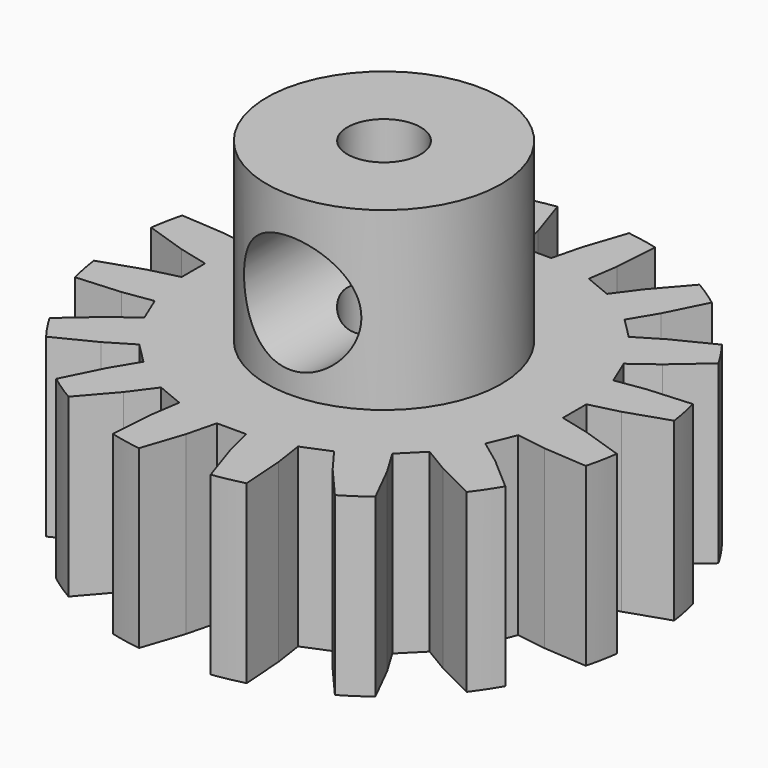
from build123d import *

# Parameters (mm, degrees)
SKETCH_R           = 9
PAD_DEPTH          = 6
POCKET_DEPTH       = 6
POLARPATTERN_COUNT = 16
SKETCH002_R        = 4
PAD001_DEPTH       = 6
SKETCH004_R        = 2
POCKET002_DEPTH    = 5
POCKET003_DEPTH    = 0.5
SKETCH003_R        = 1.25
POCKET004_DEPTH    = 15


with BuildPart() as part:
    # Sketch → Pad (new body)
    with BuildSketch(Plane.XY):
        Circle(SKETCH_R)
    extrude(amount=-PAD_DEPTH)

    # Sketch001 (on Face6 of Pad) → Pocket (cut)
    with BuildSketch(Plane.XY):
        Polygon((-0.5, 6.5), (0.5, 6.5), (0.75, 7.5), (1.25, 9), (-1.25, 9), (-0.75, 7.5), align=None)
    pocket = extrude(amount=-POCKET_DEPTH, mode=Mode.SUBTRACT)

    # PolarPattern: Pocket ×16 about axis
    polarpattern_axis = Axis((0, 0, 0), (0, 0, 1))
    for i in range(1, POLARPATTERN_COUNT):
        add(pocket.rotate(polarpattern_axis, i * 360 / POLARPATTERN_COUNT), mode=Mode.SUBTRACT)

    # Sketch002 → Pad001 (join)
    with BuildSketch(Plane.XY):
        Circle(SKETCH002_R)
    extrude(amount=PAD001_DEPTH)

    # Sketch004 → Pocket002 (cut)
    with BuildSketch(Plane.XZ):
        with Locations((0, 2.75)):
            Circle(SKETCH004_R)
    extrude(amount=POCKET002_DEPTH, mode=Mode.SUBTRACT)

    # Sketch004 → Pocket003 (cut)
    with BuildSketch(Plane.XZ):
        with Locations((0, 2.75)):
            Circle(SKETCH004_R)
    extrude(amount=-POCKET003_DEPTH, mode=Mode.SUBTRACT)

    # Sketch003 (on Face100 of Pad001) → Pocket004 (cut)
    with BuildSketch(Plane.XY.offset(6)):
        Circle(SKETCH003_R)
    extrude(amount=-POCKET004_DEPTH, mode=Mode.SUBTRACT)


solid = part.part
